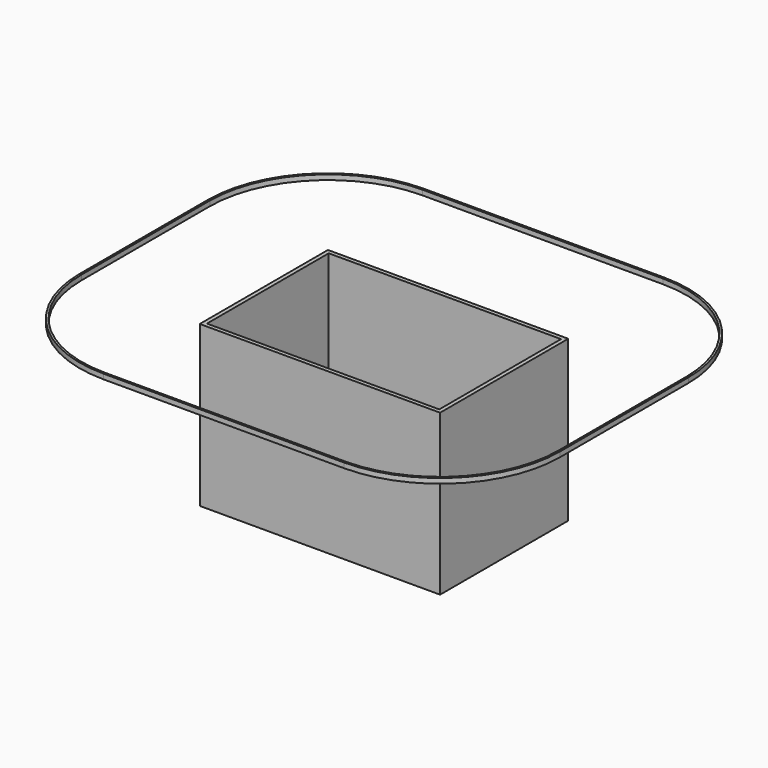
from build123d import *

# Parameters (mm, degrees)
F1_W     = 1200
F1_H     = 800
F2_DEPTH = 800
F4_DEPTH = 25
F5_T     = -20


with BuildPart() as f2:
    # F1 (on face) → F2 (new body)
    with BuildSketch(Plane.XY):
        Rectangle(F1_W, F1_H)
    extrude(amount=-F2_DEPTH)

    # F5
    f5_openings = [f2.faces().sort_by_distance(p)[0] for p in [
        (0, 0, 0),
        (0, 0, -800),
    ]]
    offset(amount=F5_T, openings=f5_openings)


with BuildPart() as f4:
    # F3 (on face) → F4 (new body)
    with BuildSketch(Plane.XY):
        with BuildLine():
            Line((600, 1000), (-600, 1000))
            ThreePointArc((-600, 1000), (-1024.264069, 824.264069), (-1200, 400))
            Line((-1200, 400), (-1200, -400))
            ThreePointArc((-1200, -400), (-1024.264069, -824.264069), (-600, -1000))
            Line((-600, -1000), (600, -1000))
            ThreePointArc((600, -1000), (1024.264069, -824.264069), (1200, -400))
            Line((1200, -400), (1200, 400))
            ThreePointArc((1200, 400), (1024.264069, 824.264069), (600, 1000))
        make_face()
        with BuildLine():
            ThreePointArc((-600, -990), (-1017.193001, -817.193001), (-1190, -400))
            Line((-1190, -400), (-1190, 400))
            ThreePointArc((-1190, 400), (-1017.193001, 817.193001), (-600, 990))
            Line((-600, 990), (600, 990))
            ThreePointArc((600, 990), (1017.193001, 817.193001), (1190, 400))
            Line((1190, 400), (1190, -400))
            ThreePointArc((1190, -400), (1017.193001, -817.193001), (600, -990))
            Line((600, -990), (-600, -990))
        make_face(mode=Mode.SUBTRACT)
    extrude(amount=F4_DEPTH)


solid = Compound([f2.part, f4.part])
